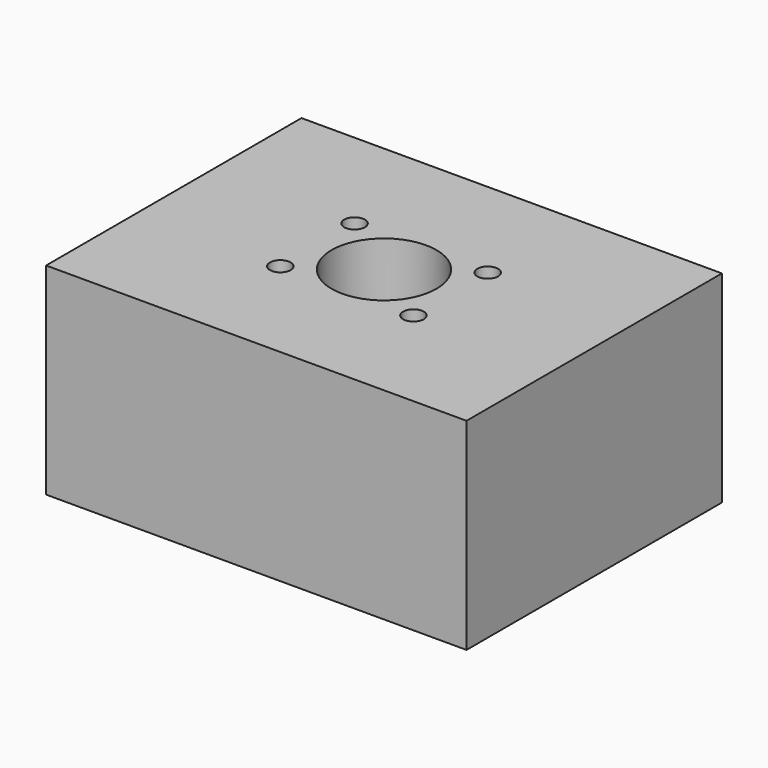
from build123d import *

# Parameters (mm, degrees)
F0_W           = 132.338822
F0_H           = 100.486502
F1_DEPTH       = 63.5
F3_D           = 26.2255
F3_CBORE_D     = 33.02
F3_CBORE_DEPTH = 52.324
F5_D           = 6.5278


with BuildPart() as f1:
    # F0 (on Top) → F1 (new body)
    with BuildSketch(Plane.XY):
        Rectangle(F0_W, F0_H)
    extrude(amount=F1_DEPTH)

    # F3 (through all)
    with Locations(Plane.XY.offset(63.5)):
        with Locations((0, 0)):
            CounterBoreHole(F3_D / 2, F3_CBORE_D / 2, F3_CBORE_DEPTH)

    # F5 (through all)
    with Locations(Plane(origin=(0, 0, 0), x_dir=(1, 0, 0), z_dir=(0, 0, -1))):
        with Locations((-20.955, 14.605), (-20.955, -14.605), (20.955, -14.605), (20.955, 14.605)):
            Hole(F5_D / 2)


solid = f1.part
